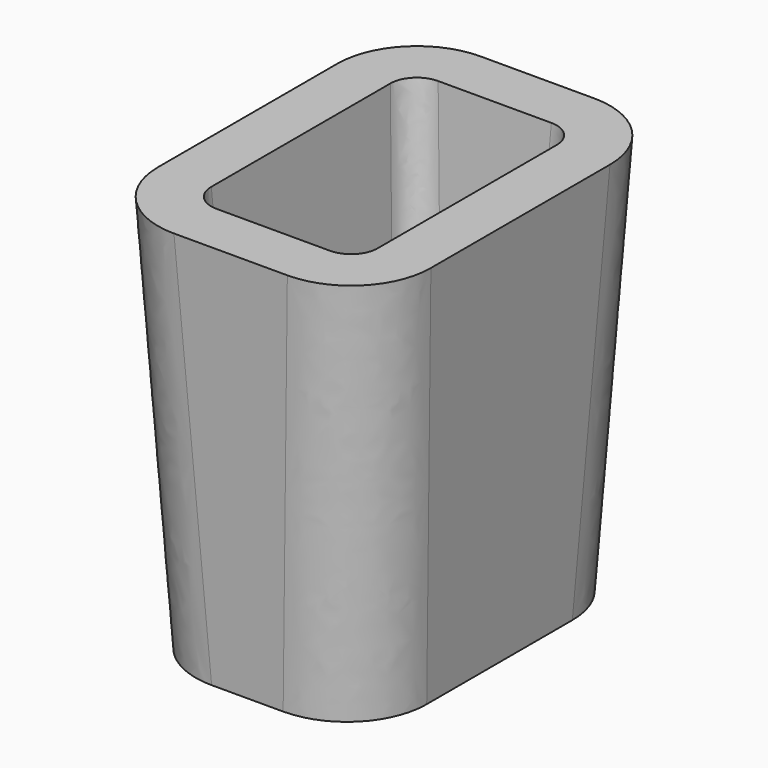
from build123d import *

# Parameters (mm, degrees)
F0_W     = 260.35
F0_H     = 365.76
F0_W_2   = 158.75
F0_H_2   = 264.16
F1_DEPTH = 381
F1_TAPER = 3
F2_R     = 76.2
F3_DEPTH = 304.8
F3_TAPER = 3
F4_R     = 25.4


with BuildPart() as f1:
    # F0 (on Top) → F1 (new body)
    with BuildSketch(Plane.XY):
        Rectangle(F0_W, F0_H)
        Rectangle(F0_W_2, F0_H_2, mode=Mode.SUBTRACT)
        Rectangle(F0_W_2, F0_H_2)
    extrude(amount=-F1_DEPTH, taper=F1_TAPER)

    # F2
    f2_edges = [f1.edges().sort_by_distance(p)[0] for p in [
        (-120.191318, -172.896318, -190.5),
        (120.191318, -172.896318, -190.5),
        (120.191318, 172.896318, -190.5),
        (-120.191318, 172.896318, -190.5),
    ]]
    fillet(f2_edges, radius=F2_R)

    # F0 (on Top) → F3 (cut)
    with BuildSketch(Plane.XY):
        Rectangle(F0_W_2, F0_H_2)
    extrude(amount=-F3_DEPTH, taper=F3_TAPER, mode=Mode.SUBTRACT)

    # F4
    f4_edges = [f1.edges().sort_by_distance(p)[0] for p in [
        (63.401109, 0, -304.8),
        (0, 116.106109, -304.8),
        (-63.401109, 0, -304.8),
        (0, -116.106109, -304.8),
        (-71.388054, 124.093054, -152.4),
        (71.388054, 124.093054, -152.4),
        (71.388054, -124.093054, -152.4),
        (-71.388054, -124.093054, -152.4),
    ]]
    fillet(f4_edges, radius=F4_R)


solid = f1.part
